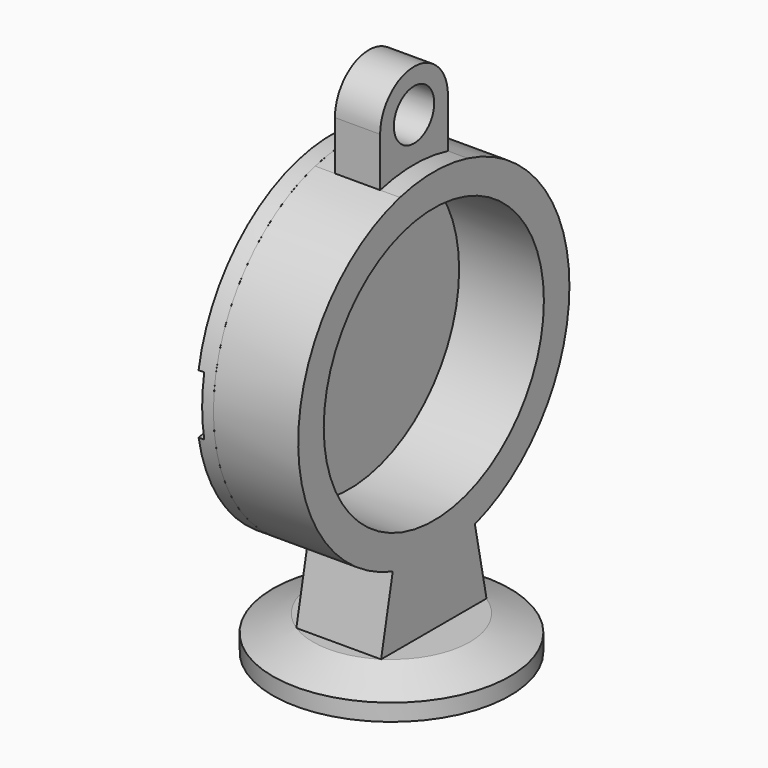
from build123d import *

# Parameters (mm, degrees)
F0_R     = 24.35068
F1_DEPTH = 7.5
F0_R_2   = 4.46193
F2_DEPTH = 4
F9_DEPTH = 25


with BuildPart() as f1:
    # F0 (on Right) → F1 (new body, symmetric)
    with BuildSketch(Plane.YZ):
        with BuildLine():
            ThreePointArc((9.087163, -28.590618), (24.213786, -17.711368), (30, 0))
            ThreePointArc((30, 0), (23.717082, 18.371173), (7.5, 29.047375))
            ThreePointArc((7.5, 29.047375), (0, 30), (-7.5, 29.047375))
            ThreePointArc((-7.5, 29.047375), (-29.988632, 0.82579), (-9.087163, -28.590618))
            ThreePointArc((-9.087163, -28.590618), (0, -30), (9.087163, -28.590618))
        make_face()
        Circle(F0_R, mode=Mode.SUBTRACT)
        with BuildLine():
            Line((11.658487, -41.223045), (9.087163, -28.590618))
            ThreePointArc((9.087163, -28.590618), (0, -30), (-9.087163, -28.590618))
            Line((-9.087163, -28.590618), (-11.658487, -41.223045))
            Line((-11.658487, -41.223045), (11.658487, -41.223045))
        make_face()
    extrude(amount=F1_DEPTH, both=True)

    # F0 (on Right) → F2 (join, symmetric)
    with BuildSketch(Plane.YZ):
        with BuildLine():
            ThreePointArc((-7.5, 29.047375), (0, 30), (7.5, 29.047375))
            Line((7.5, 29.047375), (7.5, 37.74994))
            ThreePointArc((7.5, 37.74994), (0, 45.24994), (-7.5, 37.74994))
            Line((-7.5, 37.74994), (-7.5, 29.047375))
        make_face()
        with Locations((0, 37.74994)):
            Circle(F0_R_2, mode=Mode.SUBTRACT)
    extrude(amount=F2_DEPTH, both=True)

    # F5 (on Front) → F10 (revolve)
    with BuildSketch(Plane.XZ):
        Polygon((0, -41.223045), (-13.842631, -41.223045), (-21, -44.223045), (-21, -47.223045), (0, -47.223045), align=None)
    revolve(axis=Axis((0, 0, -44.223045), (0, 0, 1)))


with BuildPart() as f6:
    # F5 (on Front) → F6 (revolve)
    with BuildSketch(Plane.XZ):
        Polygon((-13.754217, -8.942734), (-10.5, -30), (-7.5, -30), (-7.5, 0), (-13.754217, 0), align=None)
    revolve(axis=Axis((-10.627109, 0, 0), (1, 0, 0)))

    # F8 (on offset) → F9 (cut)
    with BuildSketch(Plane(origin=(-9.5, 0, 0), x_dir=(0, -1, 0), z_dir=(-1, 0, 0))):
        with BuildLine():
            ThreePointArc((27.17534, -5.240747), (30.881108, -3.705768), (32.416087, 0))
            ThreePointArc((32.416087, 0), (30.881108, 3.705768), (27.17534, 5.240747))
            ThreePointArc((27.17534, 5.240747), (21.934593, 0), (27.17534, -5.240747))
        make_face()
        with BuildLine():
            ThreePointArc((-27.17534, -5.240747), (-23.469572, -3.705768), (-21.934593, 0))
            ThreePointArc((-21.934593, 0), (-23.469572, 3.705768), (-27.17534, 5.240747))
            ThreePointArc((-27.17534, 5.240747), (-32.416087, 0), (-27.17534, -5.240747))
        make_face()
        with BuildLine():
            ThreePointArc((-27.17534, -5.240747), (-32.416087, 0), (-27.17534, 5.240747))
            Line((-27.17534, 5.240747), (-34.886351, 5.240747))
            Line((-34.886351, 5.240747), (-34.886351, -5.240747))
            Line((-34.886351, -5.240747), (-27.17534, -5.240747))
        make_face()
        with BuildLine():
            ThreePointArc((27.17534, 5.240747), (30.881108, 3.705768), (32.416087, 0))
            ThreePointArc((32.416087, 0), (30.881108, -3.705768), (27.17534, -5.240747))
            Line((27.17534, -5.240747), (34.886351, -5.240747))
            Line((34.886351, -5.240747), (34.886351, 5.240747))
            Line((34.886351, 5.240747), (27.17534, 5.240747))
        make_face()
    extrude(amount=F9_DEPTH, mode=Mode.SUBTRACT)


solid = Compound([f1.part, f6.part])
